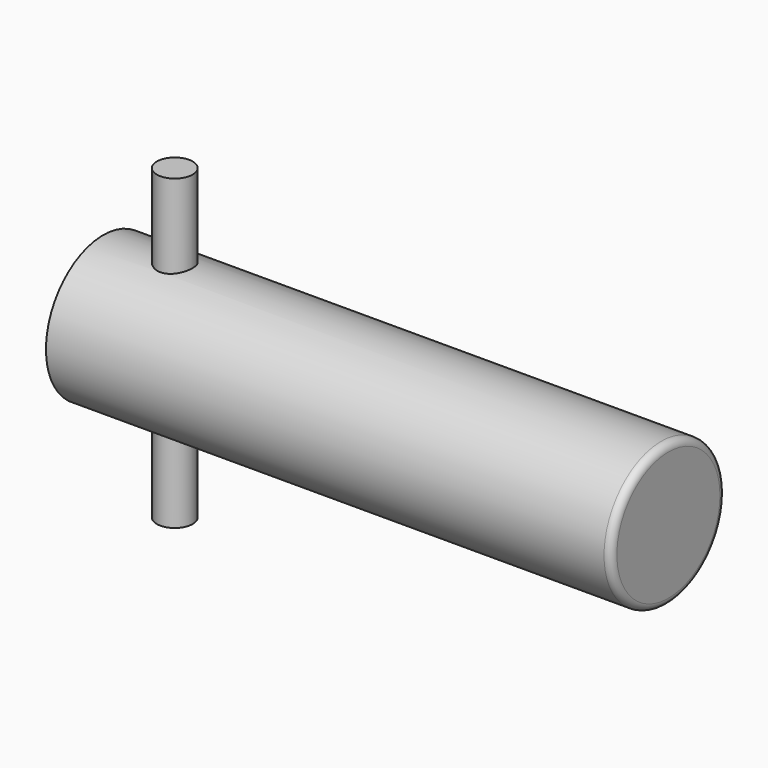
from build123d import *

# Parameters (mm, degrees)
F0_R     = 20
F1_DEPTH = 158
F2_R     = 5
F3_DEPTH = 43
F4_R     = 2


with BuildPart() as f1:
    # F0 (on Right) → F1 (new body)
    with BuildSketch(Plane.YZ):
        Circle(F0_R)
    extrude(amount=F1_DEPTH)

    # F2 (on Top) → F3 (join, symmetric)
    with BuildSketch(Plane.XY):
        with Locations((20, 0)):
            Circle(F2_R)
    extrude(amount=F3_DEPTH, both=True)

    # F4
    f4_edges = [f1.edges().sort_by_distance(p)[0] for p in [
        (158, -20, 0),
    ]]
    fillet(f4_edges, radius=F4_R)


solid = f1.part
